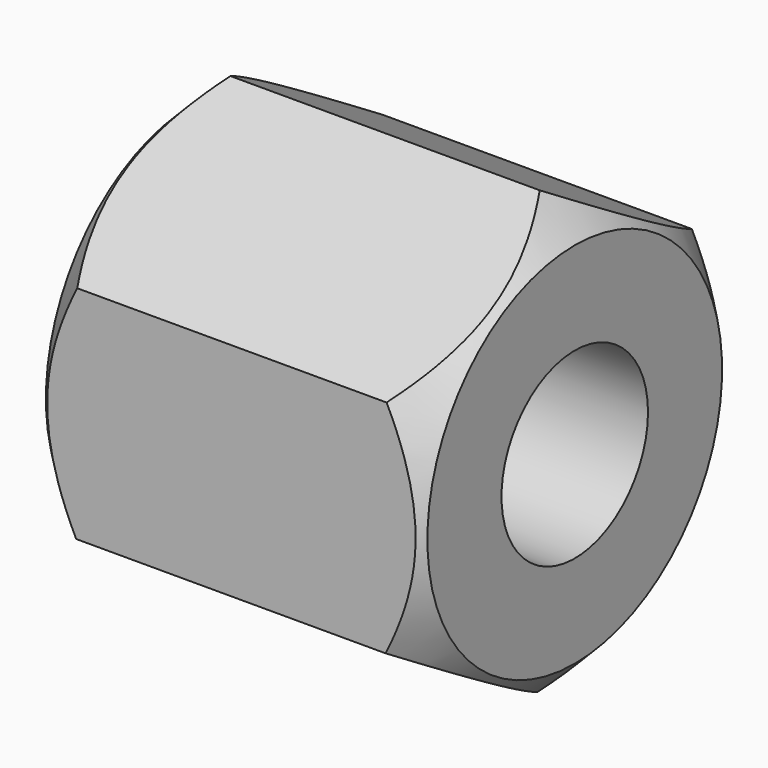
from build123d import *

# Parameters (mm, degrees)
F0_R     = 1.2
F1_DEPTH = 2.5


with BuildPart() as f1:
    # F0 (on Right) → F1 (new body, symmetric)
    with BuildSketch(Plane.YZ):
        Polygon((-0.0173955408, -2.8866989328), (2.4912568385, -1.4584144466), (2.5086523793, 1.4282844861), (0.0173955408, 2.8866989328), (-2.4912568385, 1.4584144466), (-2.5086523793, -1.4282844861), align=None)
        Circle(F0_R, mode=Mode.SUBTRACT)
    extrude(amount=F1_DEPTH, both=True)

    # F2 (on Front) → F3 (revolve, cut)
    with BuildSketch(Plane.XZ):
        Polygon((3.23799, -3.6760166123), (3.23799, -1.6760166123), (1.23799, -3.6760166123), align=None)
        Polygon((-3.23799, -1.6760166123), (-3.23799, -3.6760166123), (-1.23799, -3.6760166123), align=None)
    revolve(axis=Axis((0, 0, 0), (-1, 0, 0)), mode=Mode.SUBTRACT)


solid = f1.part
